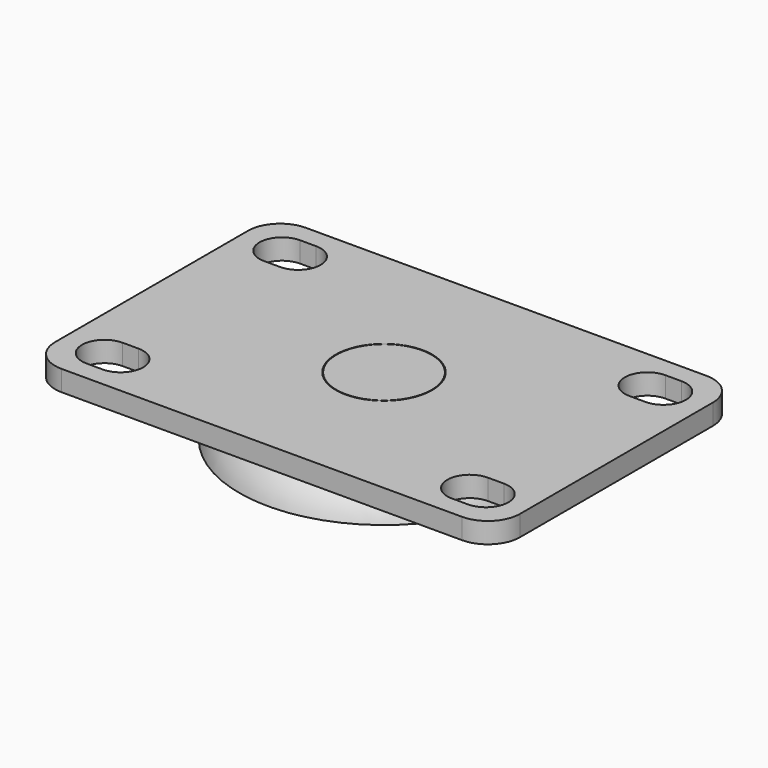
from build123d import *

# Parameters (mm, degrees)
F1_DEPTH      = 4.064
F4_R          = 9.525
F5_DEPTH      = 7.621
F5_DEPTH_BACK = 4.065
F6_R          = 9.398
F8_DEPTH      = 18.034


with BuildPart() as f1:
    # F0 (on Top) → F1 (new body)
    with BuildSketch(Plane.XY):
        with BuildLine():
            Line((39.5605, 30.1625), (-39.5605, 30.1625))
            ThreePointArc((-39.5605, 30.1625), (-44.0506280605, 28.3026280605), (-45.9105, 23.8125))
            Line((-45.9105, 23.8125), (-45.9105, -23.8125))
            ThreePointArc((-45.9105, -23.8125), (-44.0506280605, -28.3026280605), (-39.5605, -30.1625))
            Line((-39.5605, -30.1625), (39.5605, -30.1625))
            ThreePointArc((39.5605, -30.1625), (44.0506280605, -28.3026280605), (45.9105, -23.8125))
            Line((45.9105, -23.8125), (45.9105, 23.8125))
            ThreePointArc((45.9105, 23.8125), (44.0506280605, 28.3026280605), (39.5605, 30.1625))
        make_face()
        with BuildLine():
            ThreePointArc((-34.4805, -17.4625), (-31.3374103576, -18.7644103576), (-30.0355, -21.9075))
            ThreePointArc((-30.0355, -21.9075), (-31.3374103576, -25.0505896424), (-34.4805, -26.3525))
            Line((-34.4805, -26.3525), (-37.6555, -26.3525))
            ThreePointArc((-37.6555, -26.3525), (-42.1005, -21.9075), (-37.6555, -17.4625))
            Line((-37.6555, -17.4625), (-34.4805, -17.4625))
        make_face(mode=Mode.SUBTRACT)
        with BuildLine():
            ThreePointArc((34.4805, -26.3525), (30.0355, -21.9075), (34.4805, -17.4625))
            Line((34.4805, -17.4625), (37.6555, -17.4625))
            ThreePointArc((37.6555, -17.4625), (40.7985896424, -18.7644103576), (42.1005, -21.9075))
            ThreePointArc((42.1005, -21.9075), (40.7985896424, -25.0505896424), (37.6555, -26.3525))
            Line((37.6555, -26.3525), (34.4805, -26.3525))
        make_face(mode=Mode.SUBTRACT)
        with BuildLine():
            ThreePointArc((-34.4805, 26.3525), (-31.3374103576, 25.0505896424), (-30.0355, 21.9075))
            ThreePointArc((-30.0355, 21.9075), (-31.3374103576, 18.7644103576), (-34.4805, 17.4625))
            Line((-34.4805, 17.4625), (-37.6555, 17.4625))
            ThreePointArc((-37.6555, 17.4625), (-42.1005, 21.9075), (-37.6555, 26.3525))
            Line((-37.6555, 26.3525), (-34.4805, 26.3525))
        make_face(mode=Mode.SUBTRACT)
        with BuildLine():
            ThreePointArc((37.6555, 26.3525), (40.7985896424, 25.0505896424), (42.1005, 21.9075))
            ThreePointArc((42.1005, 21.9075), (40.7985896424, 18.7644103576), (37.6555, 17.4625))
            Line((37.6555, 17.4625), (34.4805, 17.4625))
            ThreePointArc((34.4805, 17.4625), (30.0355, 21.9075), (34.4805, 26.3525))
            Line((34.4805, 26.3525), (37.6555, 26.3525))
        make_face(mode=Mode.SUBTRACT)
    extrude(amount=F1_DEPTH)

    # F2 (on Front) → F3 (revolve)
    with BuildSketch(Plane.XZ):
        with BuildLine():
            Line((18.7376223006, 0), (0, 0))
            Line((0, 0), (0, -7.62))
            Line((0, -7.62), (28.575, -7.62))
            ThreePointArc((28.575, -7.62), (24.9593262473, -2.1278147432), (18.7376223006, 0))
        make_face()
    revolve(axis=Axis((0, 0, -3.81), (0, 0, -1)))

    # F4 (on Top) → F5 (cut, two sides)
    with BuildSketch(Plane.XY) as f5_sk:
        Circle(F4_R)
    extrude(amount=-F5_DEPTH, mode=Mode.SUBTRACT)
    extrude(f5_sk.sketch, amount=F5_DEPTH_BACK, mode=Mode.SUBTRACT)


with BuildPart() as f8:
    # F6 (on face) → F8 (new body, through all)
    with BuildSketch(Plane.XY.offset(4.064)):
        Circle(F6_R)
    extrude(amount=-F8_DEPTH)


solid = Compound([f1.part, f8.part])
